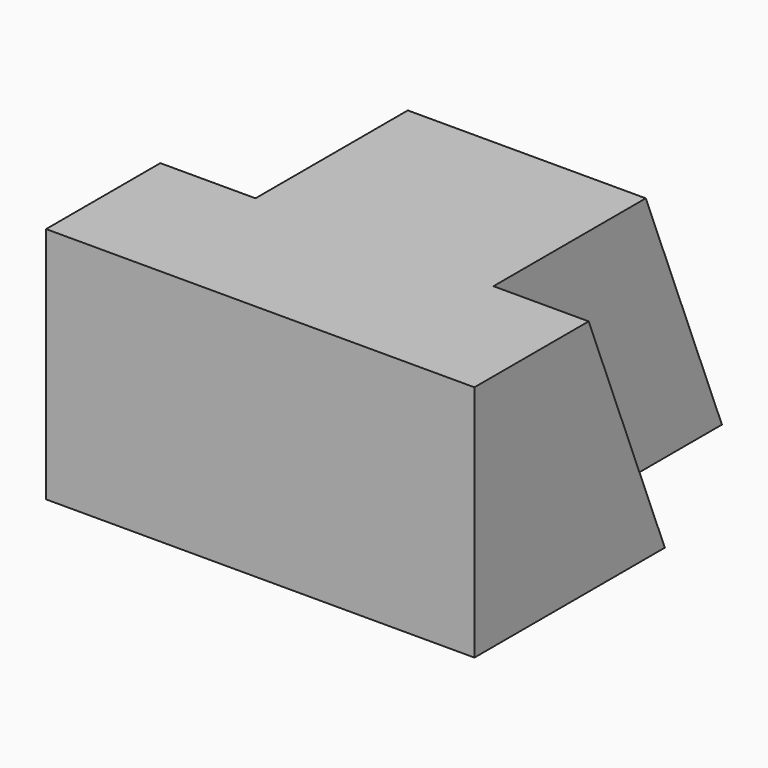
from build123d import *

# Parameters (mm, degrees)
F1_DEPTH = 25.4
F3_DEPTH = 12.7
F5_DEPTH = 31.75
F6_DEPTH = 12.7
F8_DEPTH = 12.7
F9_DEPTH = 25.4


with BuildPart() as f1:
    # F0 (on Right) → F1 (new body)
    with BuildSketch(Plane.YZ):
        Polygon((0, 31.75), (0, 0), (31.75, 0), (19.05, 31.75), align=None)
        Polygon((19.05, 31.75), (31.75, 0), (57.15, 0), (57.15, 31.75), align=None)
    extrude(amount=F1_DEPTH)

    # F2 (on face) → F3 (cut)
    with BuildSketch(Plane.YZ.offset(25.4)):
        Polygon((57.15, 31.75), (19.05, 31.75), (31.75, 0), (57.15, 0), align=None)
    extrude(amount=-F3_DEPTH, mode=Mode.SUBTRACT)

    # F5 (add): faces of the model
    f5_faces = [f1.faces().sort_by_distance(p)[0] for p in [
        (12.7, 41.0633333333, 16.9333333333),
        (25.4, 12.9645833333, 14.5520833333),
    ]]
    extrude(f5_faces, amount=F5_DEPTH)

    # F4 (on face) → F6 (cut)
    with BuildSketch(Plane(origin=(0, 0, 0), x_dir=(0, -1, 0), z_dir=(-1, 0, 0))):
        Polygon((-57.15, 31.75), (-57.15, 0), (-36.5937203169, 0), (-19.05, 31.75), align=None)
    extrude(amount=-F6_DEPTH, mode=Mode.SUBTRACT)

    # F7 (on face) → F8 (cut)
    with BuildSketch(Plane.YZ.offset(44.45)):
        Polygon((57.15, 31.75), (44.45, 31.75), (57.15, 0), align=None)
    extrude(amount=-F8_DEPTH, mode=Mode.SUBTRACT)

    # F9 (cut): a face of the model
    f9_faces = [f1.faces().sort_by_distance(p)[0] for p in [
        (31.75, 52.9166666667, 21.1666666667),
    ]]
    extrude(f9_faces, amount=-F9_DEPTH, mode=Mode.SUBTRACT)


solid = f1.part
